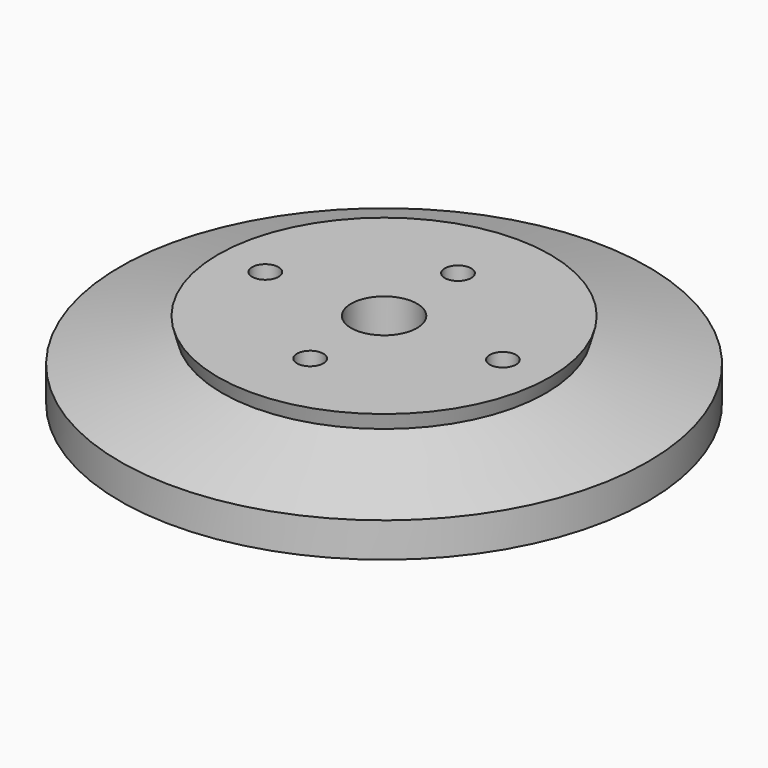
from build123d import *

# Parameters (mm, degrees)
F0_W = 5
F0_H = 1.6
F4_D = 2
F5_D = 5


with BuildPart() as f1:
    # F0 (on Front) → F1 (revolve)
    with BuildSketch(Plane.XZ):
        with Locations((7.5, 0.8)):
            Rectangle(F0_W, F0_H)
    revolve(axis=Axis((0, 0, 0.8), (0, 0, 1)))


with BuildPart() as f2:
    # F0 (on Front) → F2 (revolve)
    with BuildSketch(Plane.XZ):
        Polygon((0, 8), (0, 1.6), (5, 1.6), (10, 1.6), (10, 0), (12, 0), (20, 2.1435935394), (20, 4.7703366476), (12.2725933897, 6.8408890085), (7.9467322776, 8), align=None)
        Polygon((12.5831762438, 8), (7.9467322776, 8), (12.2725933897, 6.8408890085), align=None)
        with Locations((2.5, 0.8)):
            Rectangle(F0_W, F0_H)
    revolve(axis=Axis((0, 0, 4), (0, 0, 1)))

    # F4 (through all)
    with Locations(Plane.XY.offset(8)):
        with Locations((-9, 0), (0, 7), (9, 0), (0, -7)):
            Hole(F4_D / 2)

    # F5 (through all)
    with Locations(Plane.XY.offset(8)):
        with Locations((0, 0)):
            Hole(F5_D / 2)


solid = Compound([f1.part, f2.part])
